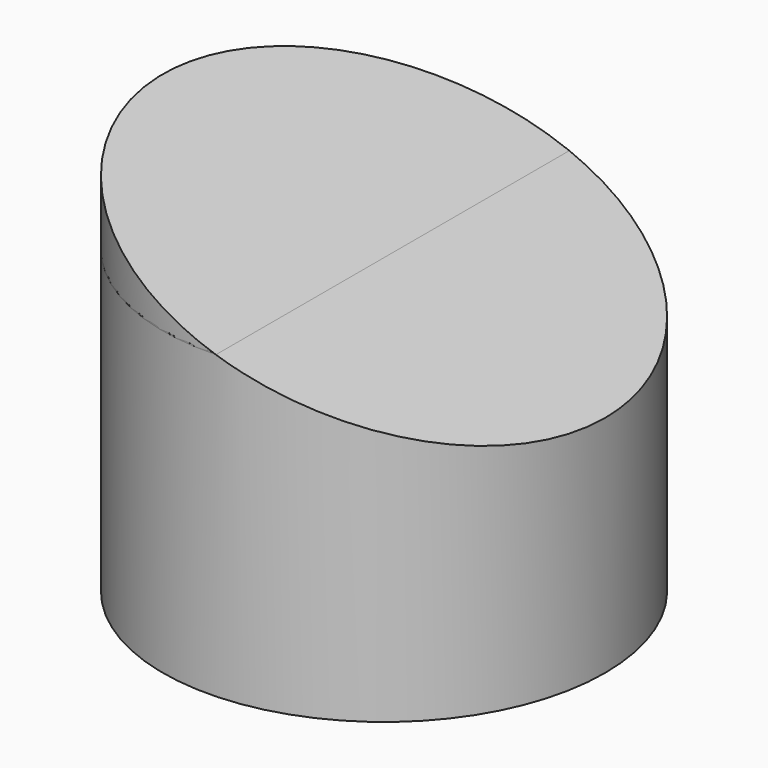
from build123d import *

# Parameters (mm, degrees)
F4_R           = 164.6055242693
F4_R_2         = 50.8
F5_DEPTH       = 228.6
F6_DEPTH       = 76.2
F7_DEPTH       = 76.2
F1_FACE_R      = 50.8
F9_R           = 50.8
F10_DEPTH      = 0.254
F13_R          = 50.8
F14_DEPTH      = 0.254
F15_R          = 50.8
F16_DEPTH      = 88.9
F17_DEPTH      = 76.2010001
F17_DEPTH_BACK = 76.2010001


with BuildPart() as f1:
    # F0 (on Front) → F1 (revolve)
    with BuildSketch(Plane.XZ):
        with BuildLine():
            Line((0, 152.4), (0, 0))
            Line((0, 0), (101.6, 0))
            add(Edge.make_bspline(
                [(0, 152.4), (31.2806190923, 152.6805776894), (58.9061267674, 6.9993138313), (101.6, 0)],
                knots=[0.5, 0.5, 0.5, 0.5, 1, 1, 1, 1], degree=3))
        make_face()
    revolve(axis=Axis((0, 0, 76.2), (0, 0, 1)))

    # F4 (on Top) → F5 (cut)
    with BuildSketch(Plane.XY):
        Circle(F4_R)
        Circle(F4_R_2, mode=Mode.SUBTRACT)
    extrude(amount=F5_DEPTH, mode=Mode.SUBTRACT)



with BuildPart() as f6:
    # F3 (on Front) → F6 (new body, symmetric)
    with BuildSketch(Plane.XZ):
        Polygon((-165.0736852158, 129.2151014842), (194.2285387215, 0), (228.6109409009, 95.6054936726), (-130.6912830364, 224.8205951567), align=None)
    extrude(amount=F6_DEPTH, both=True)


with BuildPart() as f1_1:
    add(f1.part)

    add(f6.part)  # F7 merges F6
    # F3 (on Front) → F7 (join, symmetric)
    with BuildSketch(Plane.XZ):
        Polygon((-165.0736852158, 129.2151014842), (194.2285387215, 0), (228.6109409009, 95.6054936726), (-130.6912830364, 224.8205951567), align=None)
    extrude(amount=F7_DEPTH, both=True)


with BuildPart() as f10:
    # F1_face (on face) + F9 (on offset) → F10 (new body)
    with BuildSketch(Plane(origin=(0, 0, 0), x_dir=(1, 0, 0), z_dir=(0, 0, -1))):
        Circle(F1_FACE_R)
    with BuildSketch(Plane.XY.offset(88.9)):
        Circle(F9_R)
    extrude(amount=F10_DEPTH, dir=(0, 0, -1))


with BuildPart() as f14:
    # F13 (on offset) → F14 (new body)
    with BuildSketch(Plane.XY.offset(69.1388)):
        Circle(F13_R)
    extrude(amount=F14_DEPTH)


with BuildPart() as f16:
    # F15 (on offset) → F16 (new body)
    with BuildSketch(Plane.XY.offset(69.1388)):
        Circle(F15_R)
    extrude(amount=F16_DEPTH)


with BuildPart() as f17_tool:
    # F3 (on Front) → F17 (new body, two sides)
    with BuildSketch(Plane.XZ) as f17_sk:
        Polygon((-165.0736852158, 129.2151014842), (194.2285387215, 0), (228.6109409009, 95.6054936726), (-130.6912830364, 224.8205951567), align=None)
    extrude(amount=-F17_DEPTH)
    extrude(f17_sk.sketch, amount=F17_DEPTH_BACK)


with BuildPart() as f1_2:
    add(f1_1.part)

    # F17: cut by f17_tool
    add(f17_tool.part, mode=Mode.SUBTRACT)


with BuildPart() as f14_1:
    add(f14.part)

    # F17: cut by f17_tool
    add(f17_tool.part, mode=Mode.SUBTRACT)


with BuildPart() as f16_1:
    add(f16.part)

    # F17: cut by f17_tool
    add(f17_tool.part, mode=Mode.SUBTRACT)


solid = Compound([f1_2.part, f14_1.part, f16_1.part])
